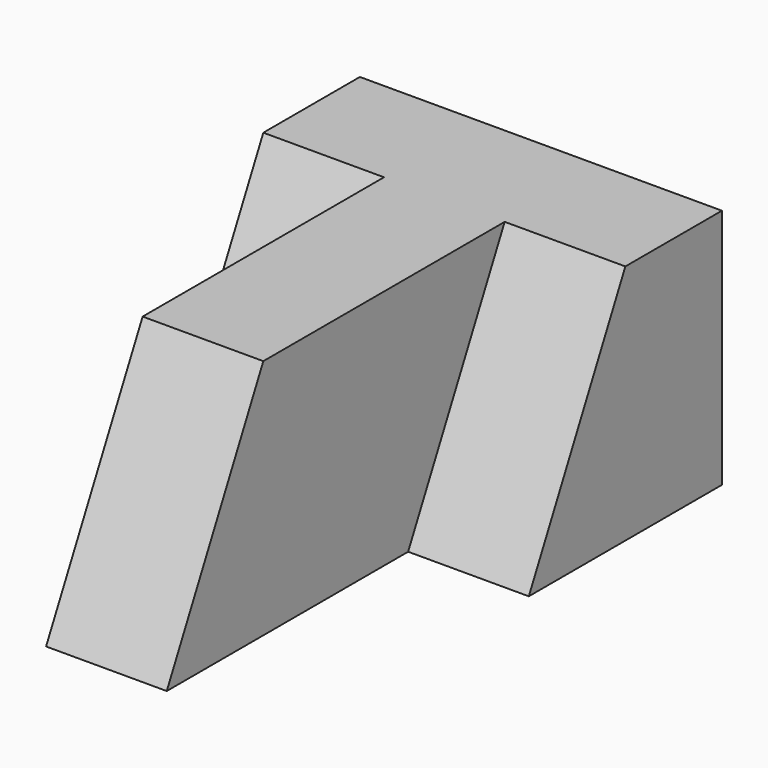
from build123d import *

# Parameters (mm, degrees)
F1_DEPTH = 25.4
F3_DEPTH = 12.7
F5_DEPTH = 12.7
F7_DEPTH = 12.7


with BuildPart() as f1:
    # F0 (on Top) → F1 (new body)
    with BuildSketch(Plane.XY):
        Polygon((-12.7, 31.75), (0, 31.75), (0, 0), (12.7, 0), (12.7, 31.75), (25.4, 31.75), (25.4, 57.15), (-12.7, 57.15), align=None)
    extrude(amount=F1_DEPTH)

    # F2 (on face) → F3 (cut)
    with BuildSketch(Plane(origin=(-12.7, 0, 0), x_dir=(0, -1, 0), z_dir=(-1, 0, 0))):
        Polygon((-31.75, 25.4), (-44.45, 25.4), (-31.75, 0), align=None)
    extrude(amount=-F3_DEPTH, mode=Mode.SUBTRACT)

    # F4 (on face) → F5 (cut)
    with BuildSketch(Plane.YZ.offset(25.4)):
        Polygon((31.75, 0), (44.45, 25.4), (31.75, 25.4), align=None)
    extrude(amount=-F5_DEPTH, mode=Mode.SUBTRACT)

    # F6 (on face) → F7 (cut)
    with BuildSketch(Plane(origin=(0, 0, 0), x_dir=(0, -1, 0), z_dir=(-1, 0, 0))):
        Polygon((0, 25.4), (-12.7, 25.4), (0, 0), align=None)
    extrude(amount=-F7_DEPTH, mode=Mode.SUBTRACT)


solid = f1.part
